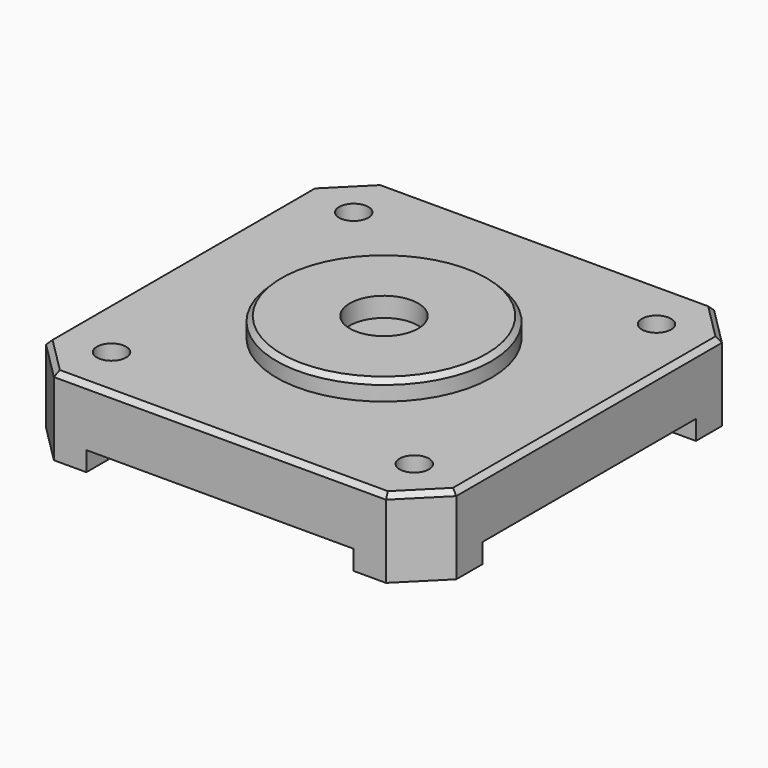
from build123d import *

# Parameters (mm, degrees)
F0_W     = 42
F0_H     = 42
F0_R     = 11
F0_R_2   = 3.5
F1_DEPTH = 8
F2_DEPTH = 2
F3_D     = 3
F4_W     = 27.35
F4_H     = 2
F5_DEPTH = 42
F6_W     = 27.35
F6_H     = 2
F7_DEPTH = 42
F8_SIZE  = 4
F9_SIZE  = 0.5


with BuildPart() as f1:
    # F0 (on Top) → F1 (new body)
    with BuildSketch(Plane.XY):
        Rectangle(F0_W, F0_H)
        Circle(F0_R, mode=Mode.SUBTRACT)
        Circle(F0_R)
        Circle(F0_R_2, mode=Mode.SUBTRACT)
        Circle(F0_R_2)
    extrude(amount=-F1_DEPTH)

    # F0 (on Top) → F2 (join)
    with BuildSketch(Plane.XY):
        Circle(F0_R)
        Circle(F0_R_2, mode=Mode.SUBTRACT)
    extrude(amount=F2_DEPTH)

    # F3 (through all)
    with Locations(Plane.XY):
        with Locations((15.5, 15.5), (15.5, -15.5), (-15.5, -15.5), (-15.5, 15.5)):
            Hole(F3_D / 2)

    # F4 (on face) → F5 (cut, through all)
    with BuildSketch(Plane.XZ.offset(21)):
        with Locations((0, -7)):
            Rectangle(F4_W, F4_H)
    extrude(amount=-F5_DEPTH, mode=Mode.SUBTRACT)

    # F6 (on face) → F7 (cut, through all)
    with BuildSketch(Plane(origin=(-21, 0, 0), x_dir=(0, -1, 0), z_dir=(-1, 0, 0))):
        with Locations((0, -7)):
            Rectangle(F6_W, F6_H)
    extrude(amount=-F7_DEPTH, mode=Mode.SUBTRACT)

    # F8
    f8_edges = [f1.edges().sort_by_distance(p)[0] for p in [
        (-21, -21, -4),
        (-21, 21, -4),
        (21, -21, -4),
        (21, 21, -4),
    ]]
    chamfer(f8_edges, length=F8_SIZE)

    # F9
    f9_edges = [f1.edges().sort_by_distance(p)[0] for p in [
        (-11, 0, 2),
        (-21, 0, 0),
        (-19, -19, 0),
        (0, -21, 0),
        (19, -19, 0),
        (21, 0, 0),
        (19, 19, 0),
        (0, 21, 0),
        (-19, 19, 0),
    ]]
    chamfer(f9_edges, length=F9_SIZE)


solid = f1.part
